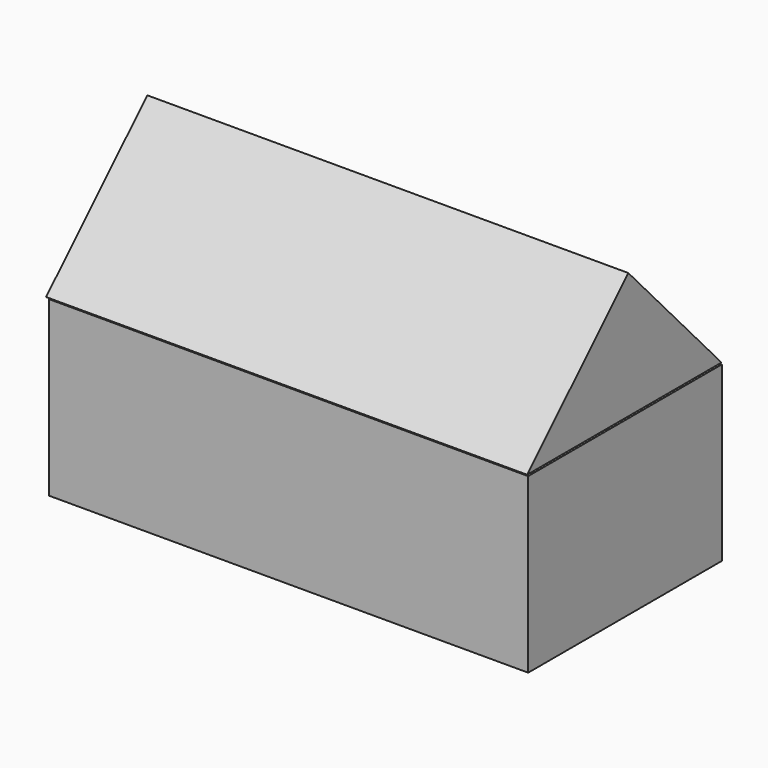
from build123d import *

# Parameters (mm, degrees)
F0_W     = 78.104642
F0_H     = 39.466305
F1_DEPTH = 28.2
F3_DEPTH = 39.2


with BuildPart() as f1:
    # F0 (on Top) → F1 (new body)
    with BuildSketch(Plane.XY):
        with Locations((0.27599, -0.827963)):
            Rectangle(F0_W, F0_H)
    extrude(amount=F1_DEPTH)


with BuildPart() as f3:
    # F2 (on Right) → F3 (new body, symmetric)
    with BuildSketch(Plane.YZ):
        Polygon((18.982468, 28.390674), (0, 48.95179), (-20.621829, 28.390674), align=None)
    extrude(amount=F3_DEPTH, both=True)


solid = Compound([f1.part, f3.part])
